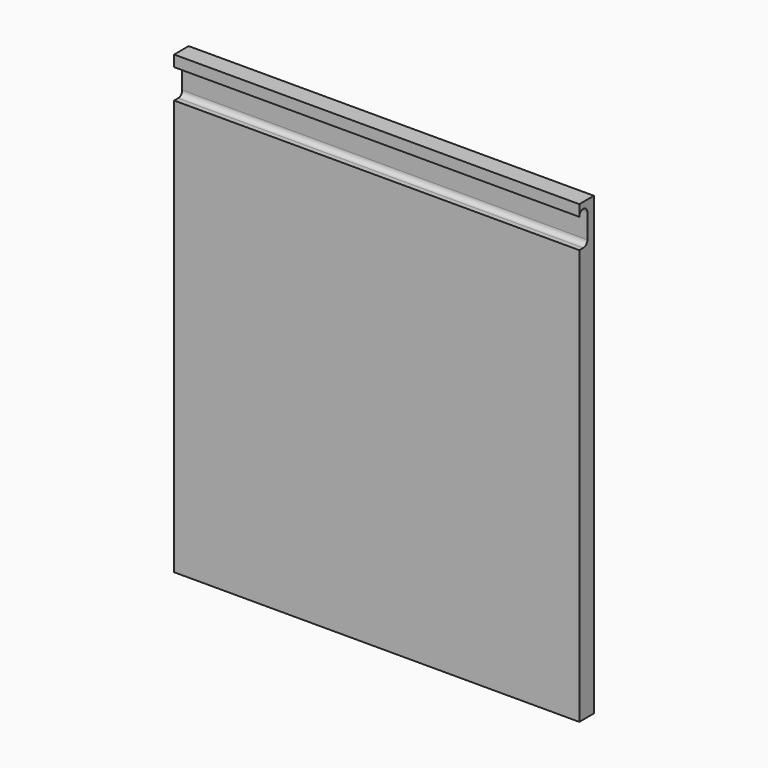
from build123d import *

# Parameters (mm, degrees)
F0_W     = 400
F0_H     = 450
F1_DEPTH = 18
F3_DEPTH = 522.8


with BuildPart() as f1:
    # F0 (on Front) → F1 (new body)
    with BuildSketch(Plane.XZ):
        with Locations((-26.607859, 3.1602)):
            Rectangle(F0_W, F0_H)
    extrude(amount=F1_DEPTH)

    # F2 (on face) → F3 (cut)
    with BuildSketch(Plane(origin=(-226.607859, 0, 0), x_dir=(0, -1, 0), z_dir=(-1, 0, 0))):
        with BuildLine():
            Line((13, 188.1602), (18, 188.1602))
            Line((18, 188.1602), (18, 217.1602))
            ThreePointArc((18, 217.1602), (13, 222.1602), (8, 217.1602))
            Line((8, 217.1602), (8, 193.1602))
            ThreePointArc((8, 193.1602), (9.464466, 189.624666), (13, 188.1602))
        make_face()
    extrude(amount=-F3_DEPTH, mode=Mode.SUBTRACT)


solid = f1.part
